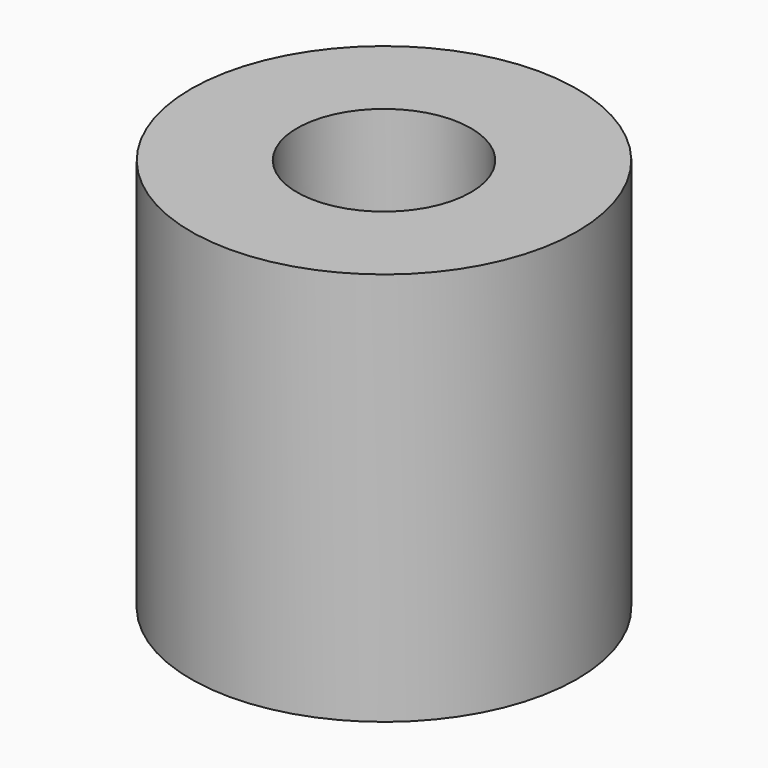
from build123d import *

# Parameters (mm, degrees)
SKETCH_R     = 5
PAD_DEPTH    = 10.2
SKETCH001_R  = 2.25
POCKET_DEPTH = 10.201


with BuildPart() as part:
    # Sketch → Pad (new body)
    with BuildSketch(Plane.XY):
        Circle(SKETCH_R)
    extrude(amount=PAD_DEPTH)

    # Sketch001 → Pocket (cut, through all)
    with BuildSketch(Plane.XY.offset(10.2)):
        Circle(SKETCH001_R)
    extrude(amount=-POCKET_DEPTH, mode=Mode.SUBTRACT)


solid = part.part
